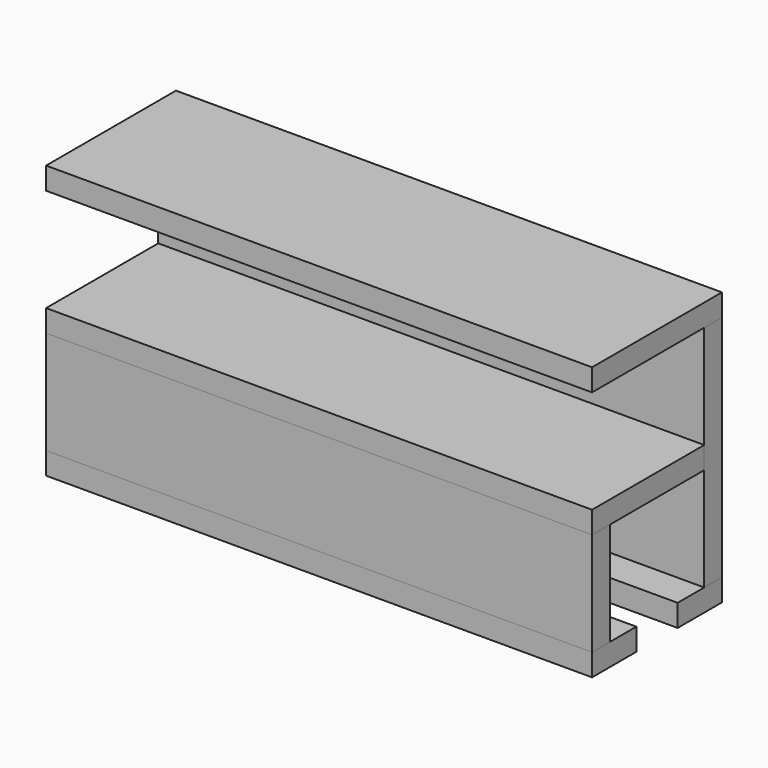
from build123d import *

# Parameters (mm, degrees)
F0_W      = 469.9
F0_H      = 196.85
F1_DEPTH  = 19.05
F2_W      = 469.9
F2_H      = 19.05
F3_DEPTH  = 120.65
F4_W      = 469.9
F4_H      = 19.05
F5_DEPTH  = 88.9
F6_W      = 469.9
F6_H      = 47.625
F7_DEPTH  = 19.05
F8_W      = 469.9
F8_H      = 47.625
F9_DEPTH  = 19.05
F10_W     = 469.9
F10_H     = 139.7
F11_DEPTH = 19.05


with BuildPart() as f1:
    # F0 (on Front) → F1 (new body)
    with BuildSketch(Plane.XZ):
        Rectangle(F0_W, F0_H)
    extrude(amount=F1_DEPTH)


with BuildPart() as f3:
    # F2 (on face) → F3 (new body)
    with BuildSketch(Plane.XZ.offset(19.05)):
        Rectangle(F2_W, F2_H)
    extrude(amount=F3_DEPTH)


with BuildPart() as f5:
    # F4 (on face) → F5 (new body)
    with BuildSketch(Plane(origin=(0, 0, -9.525), x_dir=(1, 0, 0), z_dir=(0, 0, -1))):
        with Locations((0, 130.175)):
            Rectangle(F4_W, F4_H)
    extrude(amount=F5_DEPTH)


with BuildPart() as f7:
    # F6 (on face) → F7 (new body)
    with BuildSketch(Plane(origin=(0, 0, -98.425), x_dir=(1, 0, 0), z_dir=(0, 0, -1))):
        with Locations((0, 23.8125)):
            Rectangle(F6_W, F6_H)
    extrude(amount=F7_DEPTH)


with BuildPart() as f9:
    # F8 (on face) → F9 (new body)
    with BuildSketch(Plane(origin=(0, 0, -98.425), x_dir=(1, 0, 0), z_dir=(0, 0, -1))):
        with Locations((0, 115.8875)):
            Rectangle(F8_W, F8_H)
    extrude(amount=F9_DEPTH)


with BuildPart() as f11:
    # F10 (on face) → F11 (new body)
    with BuildSketch(Plane.XY.offset(98.425)):
        with Locations((0, -69.85)):
            Rectangle(F10_W, F10_H)
    extrude(amount=F11_DEPTH)


solid = Compound([f1.part, f3.part, f5.part, f7.part, f9.part, f11.part])
